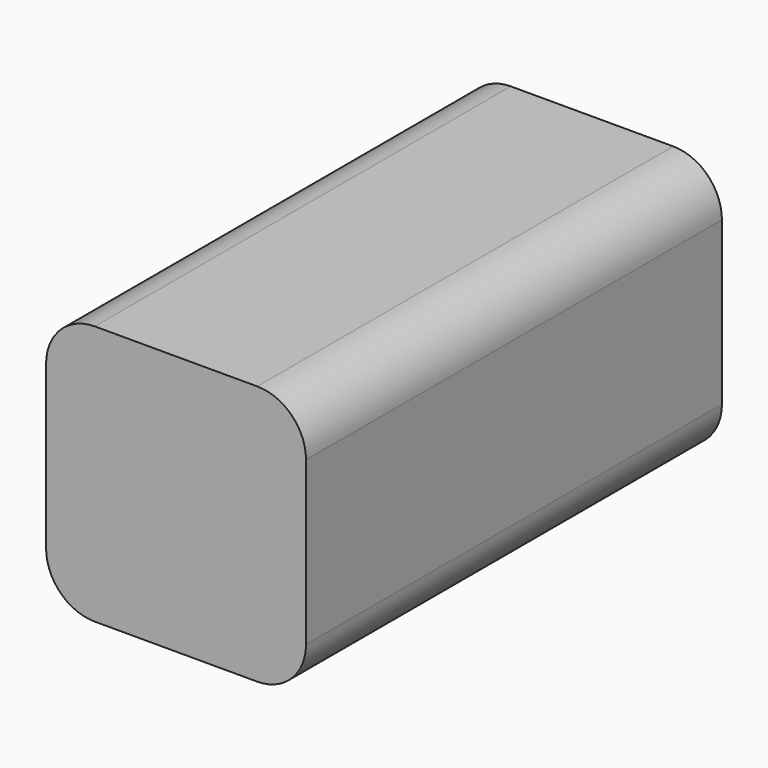
from build123d import *

# Parameters (mm, degrees)
F0_W          = 101.6
F0_H          = 101.6
F1_DEPTH      = 101.6
F1_DEPTH_BACK = 101.6
F2_R          = 19.05
F3_R          = 2.738729
F4_DEPTH      = 19.304


with BuildPart() as f1:
    # F0 (on Front) → F1 (new body, two sides)
    with BuildSketch(Plane.XZ) as f1_sk:
        Rectangle(F0_W, F0_H)
    extrude(amount=F1_DEPTH)
    extrude(f1_sk.sketch, amount=-F1_DEPTH_BACK)

    # F2
    f2_edges = [f1.edges().sort_by_distance(p)[0] for p in [
        (-50.8, 0, 50.8),
        (50.8, 0, 50.8),
        (50.8, 0, -50.8),
        (-50.8, 0, -50.8),
    ]]
    fillet(f2_edges, radius=F2_R)

    # F3 (on face) → F4 (join)
    with BuildSketch(Plane(origin=(0, 0, -50.8), x_dir=(1, 0, 0), z_dir=(0, 0, -1))):
        with Locations((-22.506165, 95.329402)):
            Circle(F3_R)
    extrude(amount=-F4_DEPTH)


solid = f1.part
